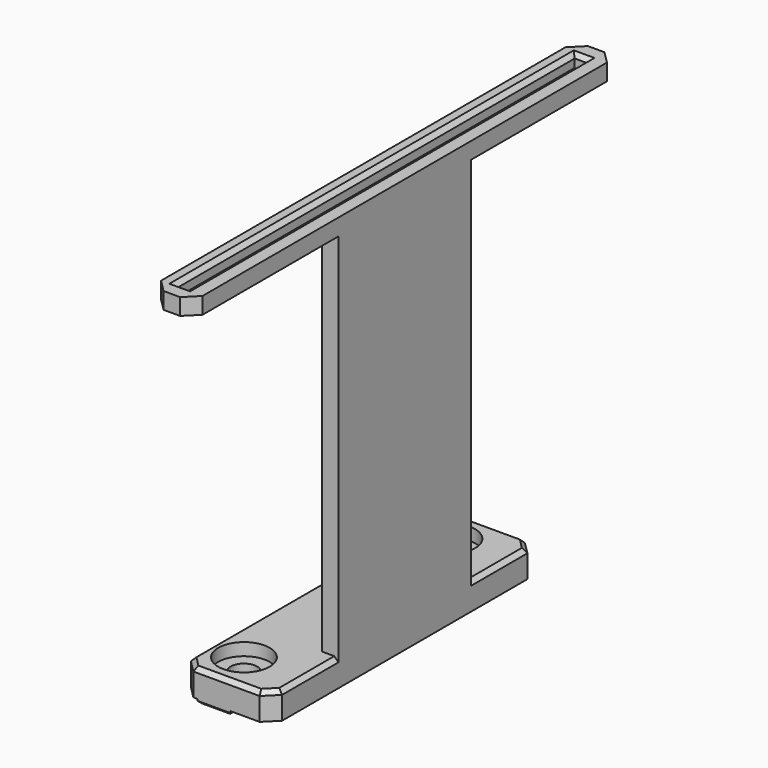
from build123d import *

# Parameters (mm, degrees)
BOX006_W          = 3
BOX006_H          = 120
BOX006_DEPTH      = 4
BOX005_W          = 10
BOX005_H          = 128
BOX005_DEPTH      = 4
BOX004_W          = 4
BOX004_H          = 40
BOX004_DEPTH      = 100
CYLINDER010_R     = 6.2
CYLINDER010_DEPTH = 3
CYLINDER009_R     = 6.2
CYLINDER009_DEPTH = 3
CYLINDER001_R     = 3.2
CYLINDER001_DEPTH = 6.5
CYLINDER_R        = 3.2
CYLINDER_DEPTH    = 6.5
BOX_W             = 22
BOX_H             = 80
BOX_DEPTH         = 6.5
BOX002_W          = 8
BOX002_H          = 4
BOX002_DEPTH      = 1
BOX001_W          = 8
BOX001_H          = 4
BOX001_DEPTH      = 1
BOX003_W          = 8
BOX003_H          = 52
BOX003_DEPTH      = 1
CHAMFER_SIZE      = 3
CHAMFER001_SIZE   = 1
CHAMFER002_SIZE   = 1
CHAMFER003_SIZE   = 0.6


with BuildPart() as cube006:
    # Box006 → Box006 (new body)
    with BuildSketch(Plane(origin=(17, -20, 96), x_dir=(1, 0, 0), z_dir=(0, 0, 1))):
        with Locations((1.5, 60)):
            Rectangle(BOX006_W, BOX006_H)
    extrude(amount=BOX006_DEPTH)


with BuildPart() as cube005:
    # Box005 → Box005 (new body)
    with BuildSketch(Plane(origin=(14, -24, 96), x_dir=(1, 0, 0), z_dir=(0, 0, 1))):
        with Locations((5, 64)):
            Rectangle(BOX005_W, BOX005_H)
    extrude(amount=BOX005_DEPTH)


with BuildPart() as cut005:
    # Box004 → Box004 (new body)
    with BuildSketch(Plane(origin=(20, 20, 0), x_dir=(1, 0, 0), z_dir=(0, 0, 1))):
        with Locations((2, 20)):
            Rectangle(BOX004_W, BOX004_H)
    extrude(amount=BOX004_DEPTH)

    # Fusion012: union Cube005
    add(cube005.part)

    # Cut005: cut Cube006
    add(cube006.part, mode=Mode.SUBTRACT)


with BuildPart() as cylinder010:
    # Cylinder010 → Cylinder010 (new body)
    with BuildSketch(Plane(origin=(10, 71, 3.5), x_dir=(1, 0, 0), z_dir=(0, 0, 1))):
        Circle(CYLINDER010_R)
    extrude(amount=CYLINDER010_DEPTH)


with BuildPart() as cylinder009:
    # Cylinder009 → Cylinder009 (new body)
    with BuildSketch(Plane(origin=(10, 9, 3.5), x_dir=(1, 0, 0), z_dir=(0, 0, 1))):
        Circle(CYLINDER009_R)
    extrude(amount=CYLINDER009_DEPTH)


with BuildPart() as cylinder001:
    # Cylinder001 → Cylinder001 (new body)
    with BuildSketch(Plane(origin=(10, 71, -3), x_dir=(1, 0, 0), z_dir=(0, 0, 1))):
        Circle(CYLINDER001_R)
    extrude(amount=CYLINDER001_DEPTH)


with BuildPart() as cylinder:
    # Cylinder → Cylinder (new body)
    with BuildSketch(Plane(origin=(10, 9, -3), x_dir=(1, 0, 0), z_dir=(0, 0, 1))):
        Circle(CYLINDER_R)
    extrude(amount=CYLINDER_DEPTH)


with BuildPart() as cut004:
    # Box → Box (new body)
    with BuildSketch(Plane(origin=(2, 0, 0), x_dir=(1, 0, 0), z_dir=(0, 0, 1))):
        with Locations((11, 40)):
            Rectangle(BOX_W, BOX_H)
    extrude(amount=BOX_DEPTH)

    # Cut: cut Cylinder
    add(cylinder.part, mode=Mode.SUBTRACT)

    # Cut002: cut Cylinder001
    add(cylinder001.part, mode=Mode.SUBTRACT)

    # Cut003: cut Cylinder009
    add(cylinder009.part, mode=Mode.SUBTRACT)

    # Cut004: cut Cylinder010
    add(cylinder010.part, mode=Mode.SUBTRACT)


with BuildPart() as cube002:
    # Box002 → Box002 (new body)
    with BuildSketch(Plane(origin=(6, 76, -1), x_dir=(1, 0, 0), z_dir=(0, 0, 1))):
        with Locations((4, 2)):
            Rectangle(BOX002_W, BOX002_H)
    extrude(amount=BOX002_DEPTH)


with BuildPart() as fusion010:
    # Box001 → Box001 (new body)
    with BuildSketch(Plane(origin=(6, 0, -1), x_dir=(1, 0, 0), z_dir=(0, 0, 1))):
        with Locations((4, 2)):
            Rectangle(BOX001_W, BOX001_H)
    extrude(amount=BOX001_DEPTH)

    # Fusion010: union Cube002
    add(cube002.part)


with BuildPart() as chamfer003:
    # Box003 → Box003 (new body)
    with BuildSketch(Plane(origin=(6, 14, -1), x_dir=(1, 0, 0), z_dir=(0, 0, 1))):
        with Locations((4, 26)):
            Rectangle(BOX003_W, BOX003_H)
    extrude(amount=BOX003_DEPTH)

    # Fusion011: union Fusion010
    add(fusion010.part)

    # Fusion: union Cut004
    add(cut004.part)

    # Fusion013: union Cut005
    add(cut005.part)

    # Chamfer
    chamfer_edges = [chamfer003.edges().sort_by_distance(p)[0] for p in [
        (2, 0, 3.25),
        (2, 80, 3.25),
        (24, 0, 3.25),
        (24, 80, 3.25),
        (24, 104, 98),
        (24, -24, 98),
        (14, -24, 98),
        (14, 104, 98),
    ]]
    chamfer(chamfer_edges, length=CHAMFER_SIZE)

    # Chamfer001
    chamfer001_edges = [chamfer003.edges().sort_by_distance(p)[0] for p in [
        (20, 0, 96),
        (18.5, -20, 96),
        (17, 40, 96),
        (18.5, 100, 96),
        (20, 80, 96),
        (20, 80, 100),
        (20, 40, 100),
        (20, 0, 100),
        (18.5, 100, 100),
        (17, 40, 100),
        (18.5, -20, 100),
    ]]
    chamfer(chamfer001_edges, length=CHAMFER001_SIZE)

    # Chamfer002
    chamfer002_edges = [chamfer003.edges().sort_by_distance(p)[0] for p in [
        (13, 80, 6.5),
        (3.5, 78.5, 6.5),
        (2, 40, 6.5),
        (3.5, 1.5, 6.5),
        (13, 0, 6.5),
        (22.5, 1.5, 6.5),
        (24, 11.5, 6.5),
        (24, 68.5, 6.5),
        (22.5, 78.5, 6.5),
    ]]
    chamfer(chamfer002_edges, length=CHAMFER002_SIZE)

    # Chamfer003
    chamfer003_edges = [chamfer003.edges().sort_by_distance(p)[0] for p in [
        (6, 2, -1),
        (10, 4, -1),
        (14, 2, -1),
        (14, 78, -1),
        (10, 76, -1),
        (6, 78, -1),
        (6, 40, -1),
        (10, 66, -1),
        (14, 40, -1),
        (10, 14, -1),
        (10, 0, -1),
        (10, 80, -1),
    ]]
    chamfer(chamfer003_edges, length=CHAMFER003_SIZE)


solid = chamfer003.part
